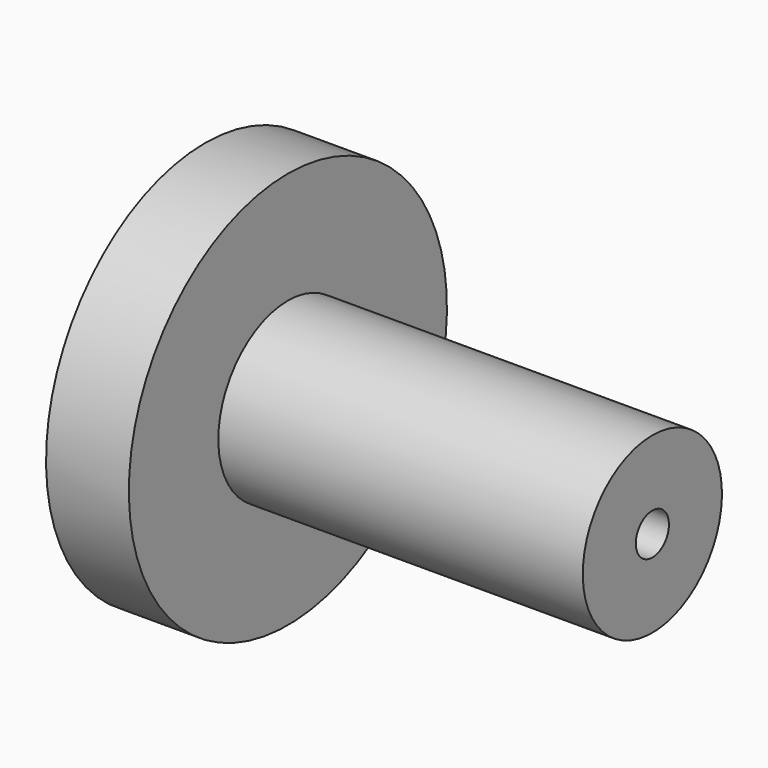
from build123d import *

# Parameters (mm, degrees)
F2_SIZE = 1.3


with BuildPart() as f1:
    # F0 (on Front) → F1 (revolve)
    with BuildSketch(Plane.XZ):
        Polygon((-17.69014, 12), (-17.69014, 1.25), (9.30986, 1.25), (9.30986, 5.25), (-12.69014, 5.25), (-12.69014, 12), align=None)
    revolve(axis=Axis((-2.74572, 0, 0), (1, 0, 0)))

    # F2
    f2_edges = [f1.edges().sort_by_distance(p)[0] for p in [
        (-17.69014, 0, -1.25),
    ]]
    chamfer(f2_edges, length=F2_SIZE)


solid = f1.part
